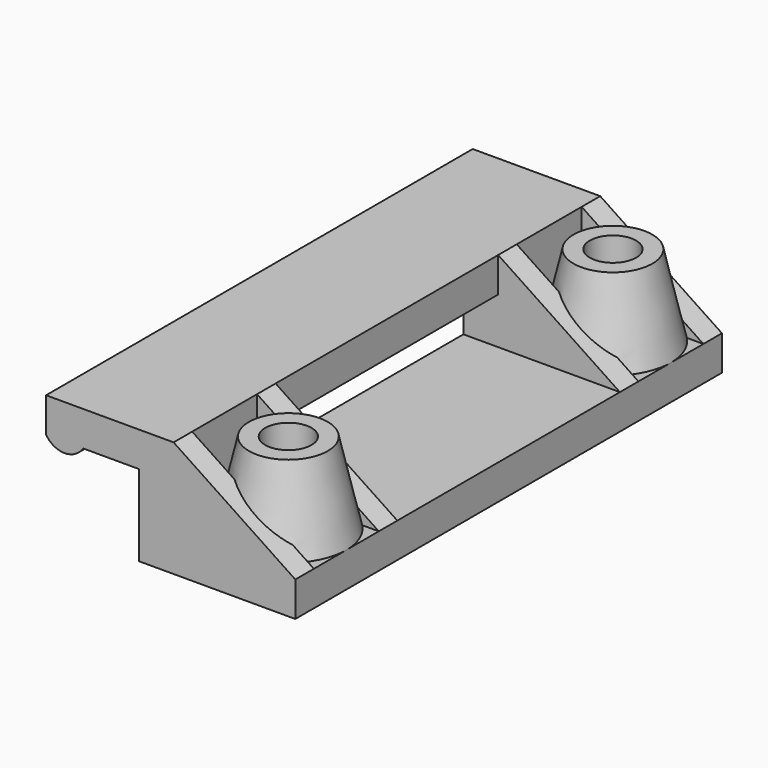
from build123d import *

# Parameters (mm, degrees)
F0_W      = 3
F0_H      = 4
F1_DEPTH  = 11
F2_DEPTH  = 2
F4_DEPTH  = 2
F5_R      = 2
F6_DEPTH  = 25
F7_R      = 3.4
F7_R_2    = 2
F8_DEPTH  = 7
F13_DEPTH = 24


with BuildPart() as f1:
    # F0 (on Front) → F1 (new body)
    with BuildSketch(Plane.XZ):
        Polygon((12, -5), (12, -2), (1.5, -2), (-1.5, -2), (-1.5, -4), (-1.5, -5), (1.5, -5), align=None)
        with BuildLine():
            Line((1.5, 4), (1.5, 5))
            Line((1.5, 5), (-9.5, 5))
            Line((-9.5, 5), (-9.5, 2))
            ThreePointArc((-9.5, 2), (-7.9057595357, 1.1241546177), (-6.3115190715, 2))
            Line((-6.3115190715, 2), (-1.5, 2))
            Line((-1.5, 2), (1.5, 2))
            Line((1.5, 2), (1.5, 4))
        make_face()
        Rectangle(F0_W, F0_H)
    extrude(amount=F1_DEPTH)

    # F0 (on Front) → F2 (join)
    with BuildSketch(Plane.XZ):
        Polygon((12, -2), (1.5, 5), (1.5, 4), (1.5, 2), (1.5, -2), align=None)
    extrude(amount=F2_DEPTH)

    # F3 (on face) → F4 (join)
    with BuildSketch(Plane.XZ.offset(11)):
        Polygon((1.5, -2), (12, -2), (1.5, 5), align=None)
    extrude(amount=-F4_DEPTH)

    # F5 (on face) → F6 (cut)
    with BuildSketch(Plane(origin=(0, 0, -5), x_dir=(1, 0, 0), z_dir=(0, 0, -1))):
        with Locations((7.0000002161, 5.5)):
            Circle(F5_R)
    extrude(amount=-F6_DEPTH, mode=Mode.SUBTRACT)

    # F7 (on face) → F8 (join)
    with BuildSketch(Plane.XY.offset(-2)):
        with Locations((7.0000002161, -5.5)):
            Circle(F7_R)
        with Locations((7.0000002161, -5.5)):
            Circle(F7_R_2, mode=Mode.SUBTRACT)
    extrude(amount=F8_DEPTH)

    # F10 (on offset) → F11 (revolve)
    with BuildSketch(Plane.YZ.offset(7)):
        Polygon((-2.1, 5), (-2.1, -2), (-2, -2), (-0.5000002161, -2), align=None)
    revolve(axis=Axis((7, -5.5, 1.7165149804), (0, 0, 1)))


with BuildPart() as f12_1:
    # F12: copy of F1
    add(f1.part.moved(Location((0, 35, 0))))


with BuildPart() as f1_1:
    add(f1.part)

    add(f12_1.part)  # F13 merges F12_1
    # F0 (on Front) → F13 (join)
    with BuildSketch(Plane.XZ):
        Polygon((12, -5), (12, -2), (1.5, -2), (-1.5, -2), (-1.5, -4), (-1.5, -5), (1.5, -5), align=None)
        with BuildLine():
            Line((1.5, 4), (1.5, 5))
            Line((1.5, 5), (-9.5, 5))
            Line((-9.5, 5), (-9.5, 2))
            ThreePointArc((-9.5, 2), (-7.9057595357, 1.1241546177), (-6.3115190715, 2))
            Line((-6.3115190715, 2), (-1.5, 2))
            Line((-1.5, 2), (1.5, 2))
            Line((1.5, 2), (1.5, 4))
        make_face()
    extrude(amount=-F13_DEPTH)


solid = f1_1.part
